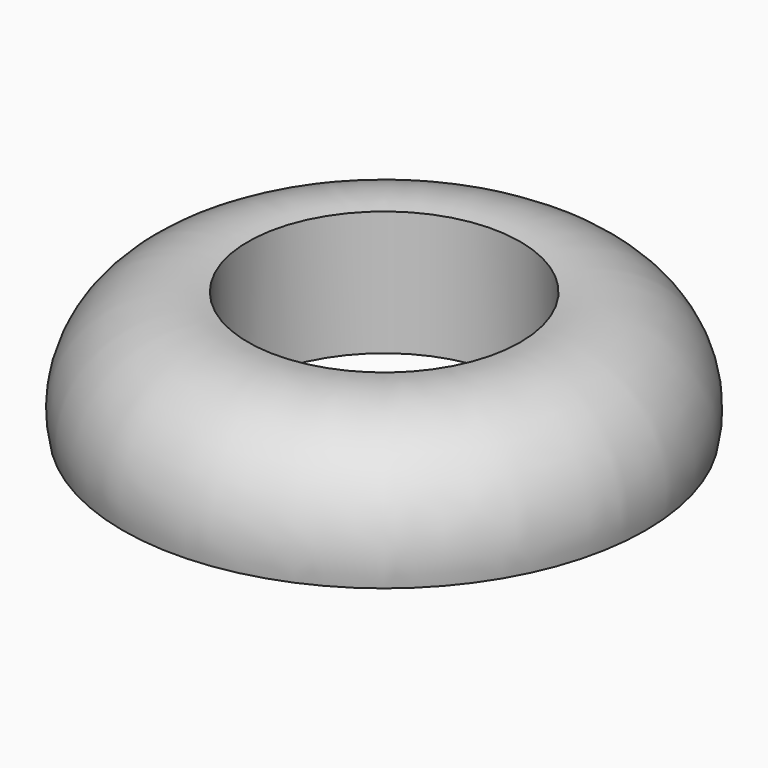
from build123d import *


with BuildPart() as f1:
    # F0 (on Front) → F1 (revolve)
    with BuildSketch(Plane.XZ):
        with BuildLine():
            ThreePointArc((37.017379, 0), (28.667702, 28.634987), (0, 36.871642))
            Line((0, 36.871642), (0, 0))
            Line((0, 0), (37.017379, 0))
        make_face()
    revolve(axis=Axis((-40.223606, 0, 8.452788), (0, 0, -1)))


solid = f1.part
